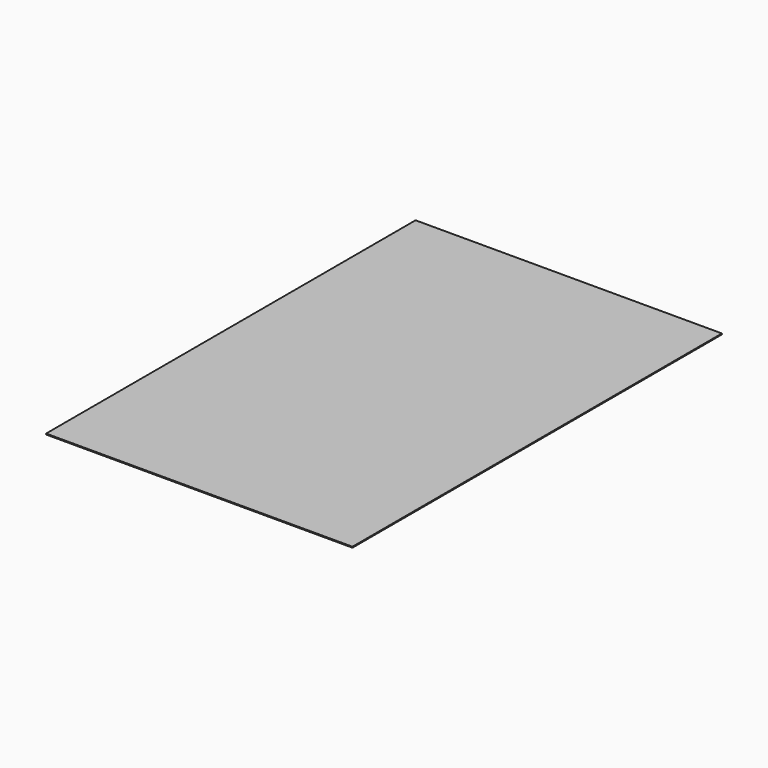
from build123d import *

# Parameters (mm, degrees)
SKETCH_W  = 3370
SKETCH_H  = 5080
PAD_DEPTH = 10


with BuildPart() as part:
    # Sketch → Pad (new body)
    with BuildSketch(Plane.XY):
        with Locations((1685, -2540)):
            Rectangle(SKETCH_W, SKETCH_H)
    extrude(amount=-PAD_DEPTH)


solid = part.part
